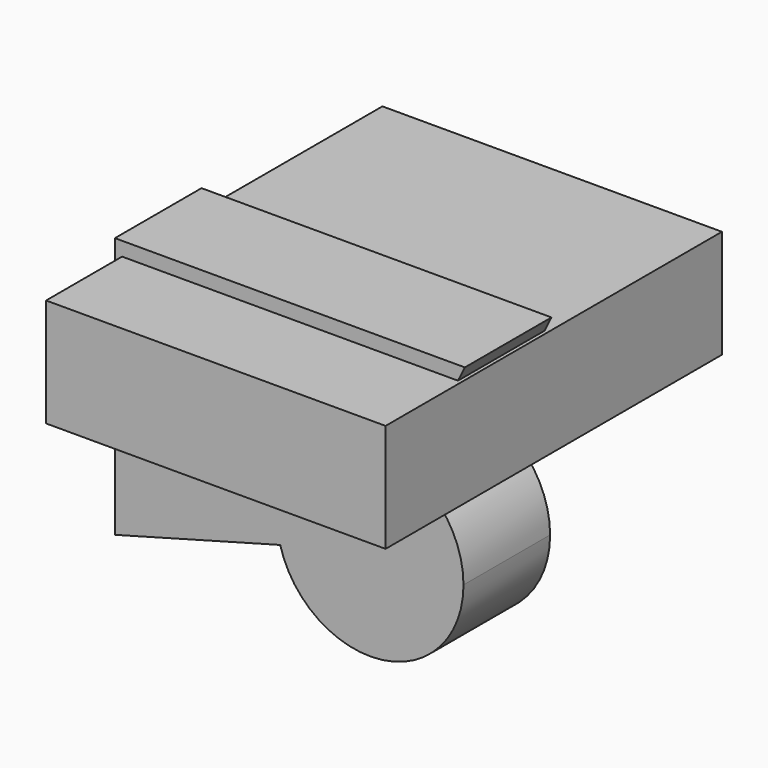
from build123d import *

# Parameters (mm, degrees)
F1_W     = 79.647951
F1_H     = 98.628715
F2_DEPTH = 25.4
F3_DEPTH = 25.4


with BuildPart() as f2:
    # F1 (on Top) → F2 (new body)
    with BuildSketch(Plane.XY):
        with Locations((3.260706, 1.626015)):
            Rectangle(F1_W, F1_H)
    extrude(amount=F2_DEPTH)

    # F0 (on Front) → F3 (join)
    with BuildSketch(Plane.XZ):
        with BuildLine():
            Line((21.648072, -16.353669), (31.325075, 3.271477))
            ThreePointArc((31.325075, 3.271477), (7.739275, 0.538226), (0.530634, -22.084684))
            Line((0.530634, -22.084684), (21.648072, -16.353669))
        make_face()
        Polygon((43.848254, 28.668722), (-38.244482, 28.668722), (-38.244482, -32.607779), align=None)
        with BuildLine():
            Line((31.325075, 3.271477), (43.848254, 28.668722))
            Line((43.848254, 28.668722), (-38.244482, -32.607779))
            Line((-38.244482, -32.607779), (0.530634, -22.084684))
            ThreePointArc((0.530634, -22.084684), (7.739275, 0.538226), (31.325075, 3.271477))
        make_face()
        with BuildLine():
            ThreePointArc((43.529359, -16.353669), (40.22946, -4.798465), (31.325075, 3.271477))
            Line((31.325075, 3.271477), (21.648072, -16.353669))
            Line((21.648072, -16.353669), (0.530634, -22.084684))
            ThreePointArc((0.530634, -22.084684), (24.53892, -38.043153), (43.529359, -16.353669))
        make_face()
        with BuildLine():
            ThreePointArc((43.529359, -16.353669), (40.22946, -4.798465), (31.325075, 3.271477))
            Line((31.325075, 3.271477), (21.648072, -16.353669))
            Line((21.648072, -16.353669), (0.530634, -22.084684))
            ThreePointArc((0.530634, -22.084684), (24.53892, -38.043153), (43.529359, -16.353669))
        make_face()
    extrude(amount=F3_DEPTH)


solid = f2.part
